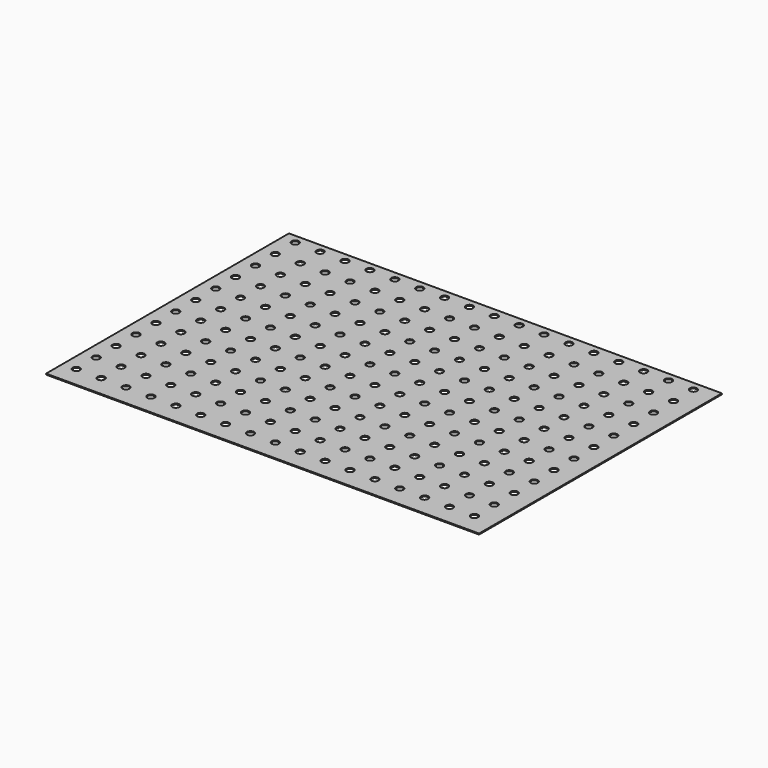
from build123d import *

# Parameters (mm, degrees)
F0_W     = 435
F0_H     = 305
F1_DEPTH = 1
F2_R     = 3.652442
F3_DEPTH = 25.4


with BuildPart() as f1:
    # F0 (on Top) → F1 (new body)
    with BuildSketch(Plane.XY):
        with Locations((1.767662, 0)):
            Rectangle(F0_W, F0_H)
    extrude(amount=F1_DEPTH)

    # F2 (on face) → F3 (cut)
    with BuildSketch(Plane.XY.offset(1)):
        with Locations((-202.129275, 143.441811)):
            Circle(F2_R)
        with Locations((-202.129275, 118.441811)):
            Circle(F2_R)
        with Locations((-202.129275, 93.441811)):
            Circle(F2_R)
        with Locations((-202.129275, 68.441811)):
            Circle(F2_R)
        with Locations((-202.129275, 43.441811)):
            Circle(F2_R)
        with Locations((-202.129275, 18.441811)):
            Circle(F2_R)
        with Locations((-202.129275, -6.558189)):
            Circle(F2_R)
        with Locations((-202.129275, -31.558189)):
            Circle(F2_R)
        with Locations((-177.129275, 143.441811)):
            Circle(F2_R)
        with Locations((-177.129275, 118.441811)):
            Circle(F2_R)
        with Locations((-177.129275, 93.441811)):
            Circle(F2_R)
        with Locations((-177.129275, 68.441811)):
            Circle(F2_R)
        with Locations((-177.129275, 43.441811)):
            Circle(F2_R)
        with Locations((-177.129275, 18.441811)):
            Circle(F2_R)
        with Locations((-177.129275, -6.558189)):
            Circle(F2_R)
        with Locations((-177.129275, -31.558189)):
            Circle(F2_R)
        with Locations((-152.129275, 143.441811)):
            Circle(F2_R)
        with Locations((-152.129275, 118.441811)):
            Circle(F2_R)
        with Locations((-152.129275, 93.441811)):
            Circle(F2_R)
        with Locations((-152.129275, 68.441811)):
            Circle(F2_R)
        with Locations((-152.129275, 43.441811)):
            Circle(F2_R)
        with Locations((-152.129275, 18.441811)):
            Circle(F2_R)
        with Locations((-152.129275, -6.558189)):
            Circle(F2_R)
        with Locations((-152.129275, -31.558189)):
            Circle(F2_R)
        with Locations((-127.129275, 143.441811)):
            Circle(F2_R)
        with Locations((-127.129275, 118.441811)):
            Circle(F2_R)
        with Locations((-127.129275, 93.441811)):
            Circle(F2_R)
        with Locations((-127.129275, 68.441811)):
            Circle(F2_R)
        with Locations((-127.129275, 43.441811)):
            Circle(F2_R)
        with Locations((-127.129275, 18.441811)):
            Circle(F2_R)
        with Locations((-127.129275, -6.558189)):
            Circle(F2_R)
        with Locations((-127.129275, -31.558189)):
            Circle(F2_R)
        with Locations((-102.129275, 143.441811)):
            Circle(F2_R)
        with Locations((-102.129275, 118.441811)):
            Circle(F2_R)
        with Locations((-102.129275, 93.441811)):
            Circle(F2_R)
        with Locations((-102.129275, 68.441811)):
            Circle(F2_R)
        with Locations((-102.129275, 43.441811)):
            Circle(F2_R)
        with Locations((-102.129275, 18.441811)):
            Circle(F2_R)
        with Locations((-102.129275, -6.558189)):
            Circle(F2_R)
        with Locations((-102.129275, -31.558189)):
            Circle(F2_R)
        with Locations((-77.129275, 143.441811)):
            Circle(F2_R)
        with Locations((-77.129275, 118.441811)):
            Circle(F2_R)
        with Locations((-77.129275, 93.441811)):
            Circle(F2_R)
        with Locations((-77.129275, 68.441811)):
            Circle(F2_R)
        with Locations((-77.129275, 43.441811)):
            Circle(F2_R)
        with Locations((-77.129275, 18.441811)):
            Circle(F2_R)
        with Locations((-77.129275, -6.558189)):
            Circle(F2_R)
        with Locations((-77.129275, -31.558189)):
            Circle(F2_R)
        with Locations((-52.129275, 143.441811)):
            Circle(F2_R)
        with Locations((-52.129275, 118.441811)):
            Circle(F2_R)
        with Locations((-52.129275, 93.441811)):
            Circle(F2_R)
        with Locations((-52.129275, 68.441811)):
            Circle(F2_R)
        with Locations((-52.129275, 43.441811)):
            Circle(F2_R)
        with Locations((-52.129275, 18.441811)):
            Circle(F2_R)
        with Locations((-52.129275, -6.558189)):
            Circle(F2_R)
        with Locations((-52.129275, -31.558189)):
            Circle(F2_R)
        with Locations((-27.129275, 143.441811)):
            Circle(F2_R)
        with Locations((-27.129275, 118.441811)):
            Circle(F2_R)
        with Locations((-27.129275, 93.441811)):
            Circle(F2_R)
        with Locations((-27.129275, 68.441811)):
            Circle(F2_R)
        with Locations((-27.129275, 43.441811)):
            Circle(F2_R)
        with Locations((-27.129275, 18.441811)):
            Circle(F2_R)
        with Locations((-27.129275, -6.558189)):
            Circle(F2_R)
        with Locations((-27.129275, -31.558189)):
            Circle(F2_R)
        with Locations((-2.129275, 143.441811)):
            Circle(F2_R)
        with Locations((-2.129275, 118.441811)):
            Circle(F2_R)
        with Locations((-2.129275, 93.441811)):
            Circle(F2_R)
        with Locations((-2.129275, 68.441811)):
            Circle(F2_R)
        with Locations((-2.129275, 43.441811)):
            Circle(F2_R)
        with Locations((-2.129275, 18.441811)):
            Circle(F2_R)
        with Locations((-2.129275, -6.558189)):
            Circle(F2_R)
        with Locations((-2.129275, -31.558189)):
            Circle(F2_R)
        with Locations((22.870725, 143.441811)):
            Circle(F2_R)
        with Locations((22.870725, 118.441811)):
            Circle(F2_R)
        with Locations((22.870725, 93.441811)):
            Circle(F2_R)
        with Locations((22.870725, 68.441811)):
            Circle(F2_R)
        with Locations((22.870725, 43.441811)):
            Circle(F2_R)
        with Locations((22.870725, 18.441811)):
            Circle(F2_R)
        with Locations((22.870725, -6.558189)):
            Circle(F2_R)
        with Locations((22.870725, -31.558189)):
            Circle(F2_R)
        with Locations((47.870725, 143.441811)):
            Circle(F2_R)
        with Locations((47.870725, 118.441811)):
            Circle(F2_R)
        with Locations((47.870725, 93.441811)):
            Circle(F2_R)
        with Locations((47.870725, 68.441811)):
            Circle(F2_R)
        with Locations((47.870725, 43.441811)):
            Circle(F2_R)
        with Locations((47.870725, 18.441811)):
            Circle(F2_R)
        with Locations((47.870725, -6.558189)):
            Circle(F2_R)
        with Locations((47.870725, -31.558189)):
            Circle(F2_R)
        with Locations((72.870725, 143.441811)):
            Circle(F2_R)
        with Locations((72.870725, 118.441811)):
            Circle(F2_R)
        with Locations((72.870725, 93.441811)):
            Circle(F2_R)
        with Locations((72.870725, 68.441811)):
            Circle(F2_R)
        with Locations((72.870725, 43.441811)):
            Circle(F2_R)
        with Locations((72.870725, 18.441811)):
            Circle(F2_R)
        with Locations((72.870725, -6.558189)):
            Circle(F2_R)
        with Locations((72.870725, -31.558189)):
            Circle(F2_R)
        with Locations((97.870725, 143.441811)):
            Circle(F2_R)
        with Locations((97.870725, 118.441811)):
            Circle(F2_R)
        with Locations((97.870725, 93.441811)):
            Circle(F2_R)
        with Locations((97.870725, 68.441811)):
            Circle(F2_R)
        with Locations((97.870725, 43.441811)):
            Circle(F2_R)
        with Locations((97.870725, 18.441811)):
            Circle(F2_R)
        with Locations((97.870725, -6.558189)):
            Circle(F2_R)
        with Locations((97.870725, -31.558189)):
            Circle(F2_R)
        with Locations((122.870725, 143.441811)):
            Circle(F2_R)
        with Locations((122.870725, 118.441811)):
            Circle(F2_R)
        with Locations((122.870725, 93.441811)):
            Circle(F2_R)
        with Locations((122.870725, 68.441811)):
            Circle(F2_R)
        with Locations((122.870725, 43.441811)):
            Circle(F2_R)
        with Locations((122.870725, 18.441811)):
            Circle(F2_R)
        with Locations((122.870725, -6.558189)):
            Circle(F2_R)
        with Locations((122.870725, -31.558189)):
            Circle(F2_R)
        with Locations((147.870725, 143.441811)):
            Circle(F2_R)
        with Locations((147.870725, 118.441811)):
            Circle(F2_R)
        with Locations((147.870725, 93.441811)):
            Circle(F2_R)
        with Locations((147.870725, 68.441811)):
            Circle(F2_R)
        with Locations((147.870725, 43.441811)):
            Circle(F2_R)
        with Locations((147.870725, 18.441811)):
            Circle(F2_R)
        with Locations((147.870725, -6.558189)):
            Circle(F2_R)
        with Locations((147.870725, -31.558189)):
            Circle(F2_R)
        with Locations((172.870725, 143.441811)):
            Circle(F2_R)
        with Locations((172.870725, 118.441811)):
            Circle(F2_R)
        with Locations((172.870725, 93.441811)):
            Circle(F2_R)
        with Locations((172.870725, 68.441811)):
            Circle(F2_R)
        with Locations((172.870725, 43.441811)):
            Circle(F2_R)
        with Locations((172.870725, 18.441811)):
            Circle(F2_R)
        with Locations((172.870725, -6.558189)):
            Circle(F2_R)
        with Locations((172.870725, -31.558189)):
            Circle(F2_R)
        with Locations((197.870725, 143.441811)):
            Circle(F2_R)
        with Locations((197.870725, 118.441811)):
            Circle(F2_R)
        with Locations((197.870725, 93.441811)):
            Circle(F2_R)
        with Locations((197.870725, 68.441811)):
            Circle(F2_R)
        with Locations((197.870725, 43.441811)):
            Circle(F2_R)
        with Locations((197.870725, 18.441811)):
            Circle(F2_R)
        with Locations((197.870725, -6.558189)):
            Circle(F2_R)
        with Locations((197.870725, -31.558189)):
            Circle(F2_R)
        with Locations((-202.129275, -56.558189)):
            Circle(F2_R)
        with Locations((-202.129275, -81.558189)):
            Circle(F2_R)
        with Locations((-202.129275, -106.558189)):
            Circle(F2_R)
        with Locations((-202.129275, -131.558189)):
            Circle(F2_R)
        with Locations((-177.129275, -56.558189)):
            Circle(F2_R)
        with Locations((-177.129275, -81.558189)):
            Circle(F2_R)
        with Locations((-177.129275, -106.558189)):
            Circle(F2_R)
        with Locations((-177.129275, -131.558189)):
            Circle(F2_R)
        with Locations((-152.129275, -56.558189)):
            Circle(F2_R)
        with Locations((-152.129275, -81.558189)):
            Circle(F2_R)
        with Locations((-152.129275, -106.558189)):
            Circle(F2_R)
        with Locations((-152.129275, -131.558189)):
            Circle(F2_R)
        with Locations((-127.129275, -56.558189)):
            Circle(F2_R)
        with Locations((-127.129275, -81.558189)):
            Circle(F2_R)
        with Locations((-127.129275, -106.558189)):
            Circle(F2_R)
        with Locations((-127.129275, -131.558189)):
            Circle(F2_R)
        with Locations((-102.129275, -56.558189)):
            Circle(F2_R)
        with Locations((-102.129275, -81.558189)):
            Circle(F2_R)
        with Locations((-102.129275, -106.558189)):
            Circle(F2_R)
        with Locations((-102.129275, -131.558189)):
            Circle(F2_R)
        with Locations((-77.129275, -56.558189)):
            Circle(F2_R)
        with Locations((-77.129275, -81.558189)):
            Circle(F2_R)
        with Locations((-77.129275, -106.558189)):
            Circle(F2_R)
        with Locations((-77.129275, -131.558189)):
            Circle(F2_R)
        with Locations((-52.129275, -56.558189)):
            Circle(F2_R)
        with Locations((-52.129275, -81.558189)):
            Circle(F2_R)
        with Locations((-52.129275, -106.558189)):
            Circle(F2_R)
        with Locations((-52.129275, -131.558189)):
            Circle(F2_R)
        with Locations((-27.129275, -56.558189)):
            Circle(F2_R)
        with Locations((-27.129275, -81.558189)):
            Circle(F2_R)
        with Locations((-27.129275, -106.558189)):
            Circle(F2_R)
        with Locations((-27.129275, -131.558189)):
            Circle(F2_R)
        with Locations((-2.129275, -56.558189)):
            Circle(F2_R)
        with Locations((-2.129275, -81.558189)):
            Circle(F2_R)
        with Locations((-2.129275, -106.558189)):
            Circle(F2_R)
        with Locations((-2.129275, -131.558189)):
            Circle(F2_R)
        with Locations((22.870725, -56.558189)):
            Circle(F2_R)
        with Locations((22.870725, -81.558189)):
            Circle(F2_R)
        with Locations((22.870725, -106.558189)):
            Circle(F2_R)
        with Locations((22.870725, -131.558189)):
            Circle(F2_R)
        with Locations((47.870725, -56.558189)):
            Circle(F2_R)
        with Locations((47.870725, -81.558189)):
            Circle(F2_R)
        with Locations((47.870725, -106.558189)):
            Circle(F2_R)
        with Locations((47.870725, -131.558189)):
            Circle(F2_R)
        with Locations((72.870725, -56.558189)):
            Circle(F2_R)
        with Locations((72.870725, -81.558189)):
            Circle(F2_R)
        with Locations((72.870725, -106.558189)):
            Circle(F2_R)
        with Locations((72.870725, -131.558189)):
            Circle(F2_R)
        with Locations((97.870725, -56.558189)):
            Circle(F2_R)
        with Locations((97.870725, -81.558189)):
            Circle(F2_R)
        with Locations((97.870725, -106.558189)):
            Circle(F2_R)
        with Locations((97.870725, -131.558189)):
            Circle(F2_R)
        with Locations((122.870725, -56.558189)):
            Circle(F2_R)
        with Locations((122.870725, -81.558189)):
            Circle(F2_R)
        with Locations((122.870725, -106.558189)):
            Circle(F2_R)
        with Locations((122.870725, -131.558189)):
            Circle(F2_R)
        with Locations((147.870725, -56.558189)):
            Circle(F2_R)
        with Locations((147.870725, -81.558189)):
            Circle(F2_R)
        with Locations((147.870725, -106.558189)):
            Circle(F2_R)
        with Locations((147.870725, -131.558189)):
            Circle(F2_R)
        with Locations((172.870725, -56.558189)):
            Circle(F2_R)
        with Locations((172.870725, -81.558189)):
            Circle(F2_R)
        with Locations((172.870725, -106.558189)):
            Circle(F2_R)
        with Locations((172.870725, -131.558189)):
            Circle(F2_R)
        with Locations((197.870725, -56.558189)):
            Circle(F2_R)
        with Locations((197.870725, -81.558189)):
            Circle(F2_R)
        with Locations((197.870725, -106.558189)):
            Circle(F2_R)
        with Locations((197.870725, -131.558189)):
            Circle(F2_R)
    extrude(amount=-F3_DEPTH, mode=Mode.SUBTRACT)


solid = f1.part
